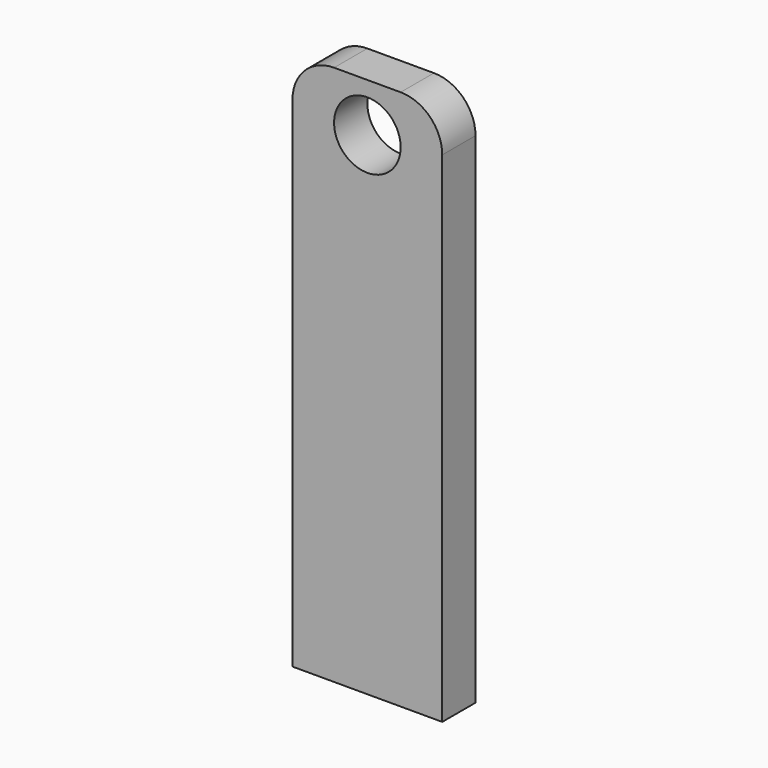
from build123d import *

# Parameters (mm, degrees)
F0_W     = 18
F0_H     = 65
F0_R     = 4
F1_DEPTH = 5
F2_R     = 5


with BuildPart() as f1:
    # F0 (on Front) → F1 (new body)
    with BuildSketch(Plane.XZ):
        with Locations((-35.724204, -14.520941)):
            Rectangle(F0_W, F0_H)
        with Locations((-35.724204, 12.148951)):
            Circle(F0_R, mode=Mode.SUBTRACT)
    extrude(amount=F1_DEPTH)

    # F2
    f2_edges = [f1.edges().sort_by_distance(p)[0] for p in [
        (-44.724204, -2.5, 17.979059),
        (-26.724204, -2.5, 17.979059),
    ]]
    fillet(f2_edges, radius=F2_R)


solid = f1.part
